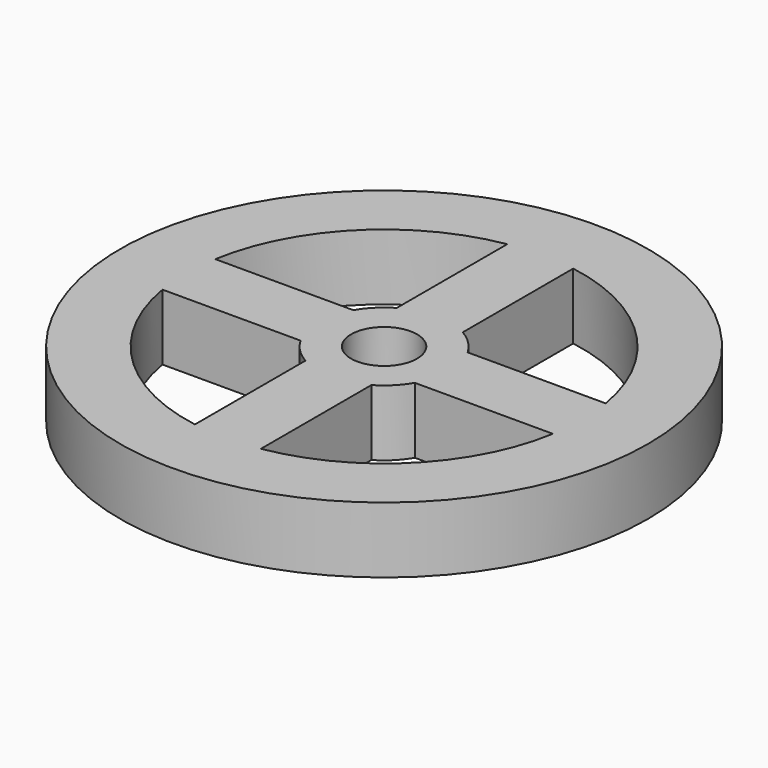
from build123d import *

# Parameters (mm, degrees)
F0_R     = 12.7
F0_R_2   = 1.5875
F1_DEPTH = 3.175


with BuildPart() as f1:
    # F0 (on Top) → F1 (new body)
    with BuildSketch(Plane.XY):
        Circle(F0_R)
        with BuildLine():
            ThreePointArc((-1.5875, -9.391777), (-6.735192, -6.735192), (-9.391777, -1.5875))
            Line((-9.391777, -1.5875), (-2.749631, -1.5875))
            ThreePointArc((-2.749631, -1.5875), (-2.245064, -2.245064), (-1.5875, -2.749631))
            Line((-1.5875, -2.749631), (-1.5875, -9.391777))
        make_face(mode=Mode.SUBTRACT)
        Circle(F0_R_2, mode=Mode.SUBTRACT)
        with BuildLine():
            Line((1.5875, -9.391777), (1.5875, -2.749631))
            ThreePointArc((1.5875, -2.749631), (2.245064, -2.245064), (2.749631, -1.5875))
            Line((2.749631, -1.5875), (9.391777, -1.5875))
            ThreePointArc((9.391777, -1.5875), (6.735192, -6.735192), (1.5875, -9.391777))
        make_face(mode=Mode.SUBTRACT)
        with BuildLine():
            Line((-1.5875, 9.391777), (-1.5875, 2.749631))
            ThreePointArc((-1.5875, 2.749631), (-2.245064, 2.245064), (-2.749631, 1.5875))
            Line((-2.749631, 1.5875), (-9.391777, 1.5875))
            ThreePointArc((-9.391777, 1.5875), (-6.735192, 6.735192), (-1.5875, 9.391777))
        make_face(mode=Mode.SUBTRACT)
        with BuildLine():
            ThreePointArc((2.749631, 1.5875), (2.245064, 2.245064), (1.5875, 2.749631))
            Line((1.5875, 2.749631), (1.5875, 9.391777))
            ThreePointArc((1.5875, 9.391777), (6.735192, 6.735192), (9.391777, 1.5875))
            Line((9.391777, 1.5875), (2.749631, 1.5875))
        make_face(mode=Mode.SUBTRACT)
    extrude(amount=F1_DEPTH)


solid = f1.part
